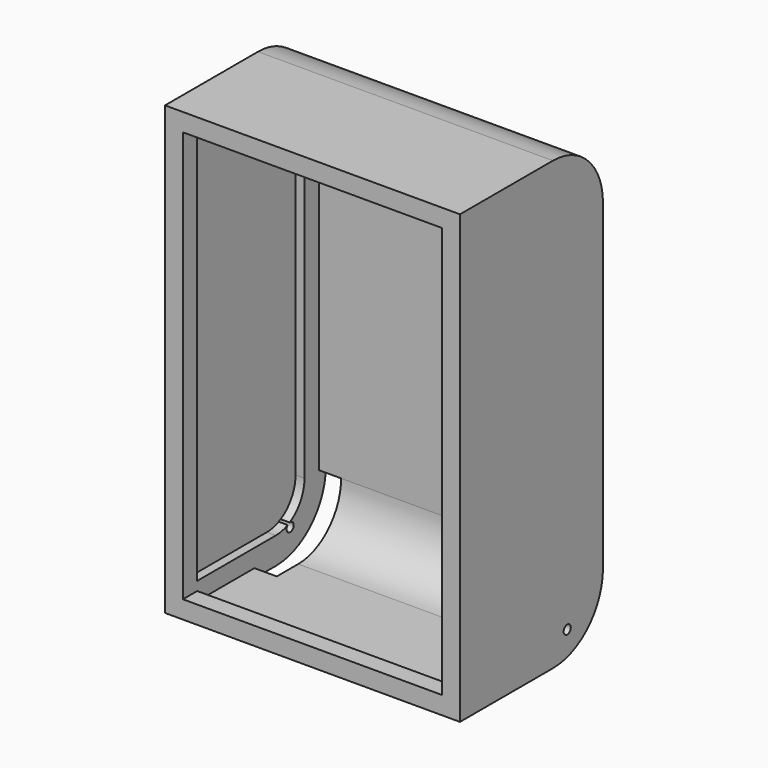
from build123d import *

# Parameters (mm, degrees)
F0_W      = 330
F0_H      = 500
F1_DEPTH  = 200
F2_R      = 70
F3_T      = -10
F5_DEPTH  = 10
F7_DEPTH  = 10
F8_W      = 290
F8_H      = 20
F9_DEPTH  = 10
F10_W     = 290
F10_H     = 20
F11_DEPTH = 10
F13_W     = 25
F13_H     = 100
F14_DEPTH = 70
F15_R     = 5
F16_DEPTH = 330.001


with BuildPart() as f1:
    # F0 (on Front) → F1 (new body)
    with BuildSketch(Plane.XZ):
        with Locations((165, -250)):
            Rectangle(F0_W, F0_H)
    extrude(amount=-F1_DEPTH)

    # F2
    f2_edges = [f1.edges().sort_by_distance(p)[0] for p in [
        (165, 200, 0),
        (165, 200, -500),
    ]]
    fillet(f2_edges, radius=F2_R)

    # F3
    f3_openings = [f1.faces().sort_by_distance(p)[0] for p in [
        (165, 0, -250),
    ]]
    offset(amount=F3_T, openings=f3_openings)

    # F4 (on face) → F5 (join)
    with BuildSketch(Plane.YZ.offset(10)):
        with BuildLine():
            ThreePointArc((190, -70), (172.426407, -27.573593), (130, -10))
            Line((130, -10), (0, -10))
            Line((0, -10), (0, -490))
            Line((0, -490), (130, -490))
            ThreePointArc((130, -490), (172.426407, -472.426407), (190, -430))
            Line((190, -430), (190, -70))
        make_face()
        with BuildLine():
            ThreePointArc((170, -430), (158.284271, -458.284271), (130, -470))
            Line((130, -470), (20, -470))
            Line((20, -470), (20, -30))
            Line((20, -30), (130, -30))
            ThreePointArc((130, -30), (158.284271, -41.715729), (170, -70))
            Line((170, -70), (170, -430))
        make_face(mode=Mode.SUBTRACT)
    extrude(amount=F5_DEPTH)

    # F6 (on face) → F7 (join)
    with BuildSketch(Plane(origin=(320, 0, 0), x_dir=(0, -1, 0), z_dir=(-1, 0, 0))):
        with BuildLine():
            ThreePointArc((-190, -430), (-172.426407, -472.426407), (-130, -490))
            Line((-130, -490), (0, -490))
            Line((0, -490), (0, -10))
            Line((0, -10), (-130, -10))
            ThreePointArc((-130, -10), (-172.426407, -27.573593), (-190, -70))
            Line((-190, -70), (-190, -430))
        make_face()
        with BuildLine():
            Line((-20, -470), (-130, -470))
            ThreePointArc((-130, -470), (-158.284271, -458.284271), (-170, -430))
            Line((-170, -430), (-170, -70))
            ThreePointArc((-170, -70), (-158.284271, -41.715729), (-130, -30))
            Line((-130, -30), (-20, -30))
            Line((-20, -30), (-20, -470))
        make_face(mode=Mode.SUBTRACT)
    extrude(amount=F7_DEPTH)

    # F8 (on face) → F9 (join)
    with BuildSketch(Plane.XY.offset(-490)):
        with Locations((165, 10)):
            Rectangle(F8_W, F8_H)
    extrude(amount=F9_DEPTH)

    # F10 (on face) → F11 (join)
    with BuildSketch(Plane(origin=(0, 0, -10), x_dir=(1, 0, 0), z_dir=(0, 0, -1))):
        with Locations((165, -10)):
            Rectangle(F10_W, F10_H)
    extrude(amount=F11_DEPTH)

    # F13 (on face) → F14 (cut)
    with BuildSketch(Plane(origin=(0, 0, -500), x_dir=(1, 0, 0), z_dir=(0, 0, -1))):
        with Locations((32.5, -150)):
            Rectangle(F13_W, F13_H)
        with Locations((297.5, -150)):
            Rectangle(F13_W, F13_H)
    extrude(amount=-F14_DEPTH, mode=Mode.SUBTRACT)

    # F15 (on face) → F16 (cut, through all)
    with BuildSketch(Plane(origin=(0, 0, 0), x_dir=(0, -1, 0), z_dir=(-1, 0, 0))):
        with Locations((-150, -470)):
            Circle(F15_R)
    extrude(amount=-F16_DEPTH, mode=Mode.SUBTRACT)


solid = f1.part
